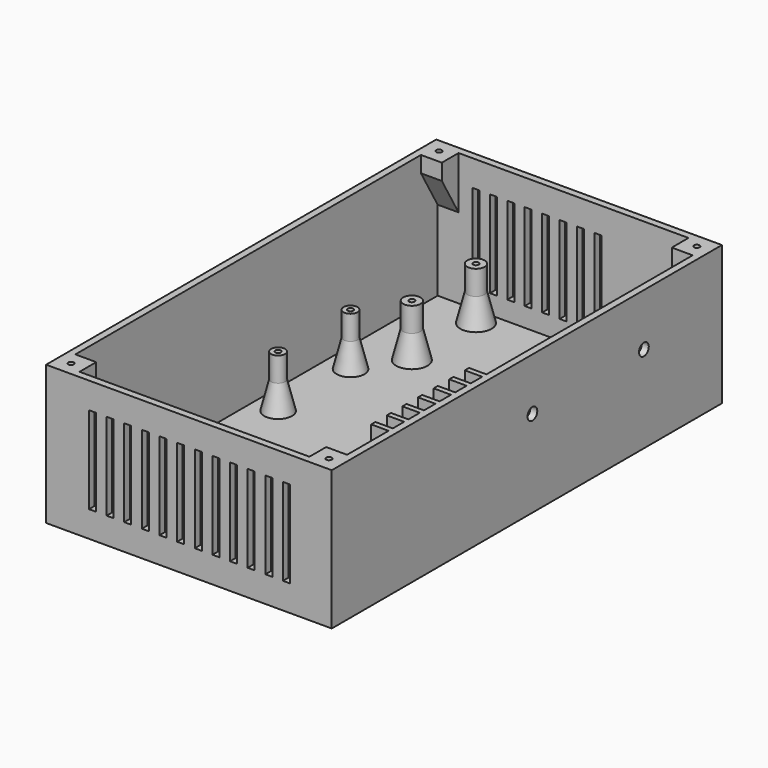
from build123d import *

# Parameters (mm, degrees)
SKETCH_W           = 140
SKETCH_H           = 40
PAD_DEPTH          = 2
SKETCH001_W        = 2
SKETCH001_H        = 40
PAD001_DEPTH       = 80
SKETCH002_W        = 138
SKETCH002_H        = 2
PAD002_DEPTH       = 80
SKETCH003_R        = 2.5
SKETCH003_R_2      = 0.8
SKETCH003_R_3      = 2
PAD003_DEPTH       = 15
SKETCH004_W        = 1.5
SKETCH004_H        = 23
PAD004_DEPTH       = 5
SKETCH005_R        = 4
POCKET_DEPTH       = 2
SKETCH006_W        = 2
SKETCH006_H        = 38
PAD005_DEPTH       = 80
SKETCH007_W        = 136
SKETCH007_H        = 2
PAD006_DEPTH       = 38
POCKET001_DEPTH    = 2
SKETCH011_W        = 8
SKETCH011_H        = 8
PAD007_DEPTH       = 15
SKETCH012_R        = 0.8
POCKET002_DEPTH    = 8
SKETCH013_R        = 1.75
POCKET003_DEPTH    = 2
SKETCH014_W        = 25
SKETCH014_H        = 2
POCKET004_DEPTH    = 2
SKETCH015_W        = 25
SKETCH015_H        = 2
POCKET005_DEPTH    = 2
CHAMFER_SIZE2      = 8
CHAMFER_SIZE       = 2
CHAMFER001_1_ANGLE = 60
CHAMFER001_1_SIZE  = 4.99
CHAMFER001_2_ANGLE = 60
CHAMFER001_2_SIZE  = 4.99
CHAMFER001_3_ANGLE = 60
CHAMFER001_3_SIZE  = 4.99
CHAMFER001_4_ANGLE = 60
CHAMFER001_4_SIZE  = 4.99
CHAMFER001_5_ANGLE = 60
CHAMFER001_5_SIZE  = 4.99
CHAMFER001_6_ANGLE = 60
CHAMFER001_6_SIZE  = 4.99
CHAMFER001_7_ANGLE = 60
CHAMFER001_7_SIZE  = 4.99
CHAMFER002_1_ANGLE = 60
CHAMFER002_1_SIZE  = 5.99
CHAMFER002_2_ANGLE = 60
CHAMFER002_2_SIZE  = 5.99
CHAMFER002_3_ANGLE = 60
CHAMFER002_3_SIZE  = 5.99
CHAMFER002_4_ANGLE = 60
CHAMFER002_4_SIZE  = 5.99


with BuildPart() as part:
    # Sketch → Pad (new body)
    with BuildSketch(Plane(origin=(0, 0, 0), x_dir=(0, -1, 0), z_dir=(-1, 0, 0))):
        with Locations((70, 20)):
            Rectangle(SKETCH_W, SKETCH_H)
    extrude(amount=PAD_DEPTH)

    # Sketch001 (on Face6 of Pad) → Pad001 (join)
    with BuildSketch(Plane(origin=(-2, 0, 0), x_dir=(0, -1, 0), z_dir=(-1, 0, 0))):
        with Locations((1, 20)):
            Rectangle(SKETCH001_W, SKETCH001_H)
    extrude(amount=PAD001_DEPTH)

    # Sketch002 (on Face6 of Pad001) → Pad002 (join)
    with BuildSketch(Plane(origin=(-2, 0, 0), x_dir=(0, -1, 0), z_dir=(-1, 0, 0))):
        with Locations((71, 1)):
            Rectangle(SKETCH002_W, SKETCH002_H)
    extrude(amount=PAD002_DEPTH)

    # Sketch003 (on Face14 of Pad002) → Pad003 (join)
    with BuildSketch(Plane(origin=(0, 0, 2), x_dir=(0, 1, 0), z_dir=(0, 0, 1))):
        with Locations((-7, 7)):
            Circle(SKETCH003_R)
        with Locations((-7, 7)):
            Circle(SKETCH003_R_2, mode=Mode.SUBTRACT)
        with Locations((-30, 7)):
            Circle(SKETCH003_R)
        with Locations((-30, 7)):
            Circle(SKETCH003_R_2, mode=Mode.SUBTRACT)
        with Locations((-7, 65)):
            Circle(SKETCH003_R)
        with Locations((-7, 65)):
            Circle(SKETCH003_R_2, mode=Mode.SUBTRACT)
        with Locations((-30, 65)):
            Circle(SKETCH003_R)
        with Locations((-30, 65)):
            Circle(SKETCH003_R_2, mode=Mode.SUBTRACT)
        with Locations((-42, 73)):
            Circle(SKETCH003_R_3)
        with Locations((-42, 73)):
            Circle(SKETCH003_R_2, mode=Mode.SUBTRACT)
        with Locations((-68, 73)):
            Circle(SKETCH003_R_3)
        with Locations((-68, 73)):
            Circle(SKETCH003_R_2, mode=Mode.SUBTRACT)
        with Locations((-42, 7)):
            Circle(SKETCH003_R_3)
        with Locations((-42, 7)):
            Circle(SKETCH003_R_2, mode=Mode.SUBTRACT)
        with Locations((-68, 7)):
            Circle(SKETCH003_R_3)
        with Locations((-68, 7)):
            Circle(SKETCH003_R_2, mode=Mode.SUBTRACT)
    extrude(amount=PAD003_DEPTH)

    # Sketch004 (on Face10 of Pad003) → Pad004 (join)
    with BuildSketch(Plane(origin=(-2, 0, 0), x_dir=(0, -1, 0), z_dir=(-1, 0, 0))):
        with Locations((82.75, 28.5)):
            Rectangle(SKETCH004_W, SKETCH004_H)
        with Locations((88.35, 28.5)):
            Rectangle(SKETCH004_W, SKETCH004_H)
        with Locations((93.95, 28.5)):
            Rectangle(SKETCH004_W, SKETCH004_H)
        with Locations((99.55, 28.5)):
            Rectangle(SKETCH004_W, SKETCH004_H)
        with Locations((105.15, 28.5)):
            Rectangle(SKETCH004_W, SKETCH004_H)
        with Locations((110.75, 28.5)):
            Rectangle(SKETCH004_W, SKETCH004_H)
        with Locations((116.35, 28.5)):
            Rectangle(SKETCH004_W, SKETCH004_H)
    extrude(amount=PAD004_DEPTH)

    # Sketch005 (on Face21 of Pad004) → Pocket (cut)
    with BuildSketch(Plane(origin=(0, 0, 2), x_dir=(0, 1, 0), z_dir=(0, 0, 1))):
        with Locations((-89.5, 13)):
            Circle(SKETCH005_R)
    extrude(amount=-POCKET_DEPTH, mode=Mode.SUBTRACT)

    # Sketch006 (on Face10 of Pocket) → Pad005 (join)
    with BuildSketch(Plane(origin=(-2, 0, 0), x_dir=(0, -1, 0), z_dir=(-1, 0, 0))):
        with Locations((139, 21)):
            Rectangle(SKETCH006_W, SKETCH006_H)
    extrude(amount=PAD005_DEPTH)

    # Sketch007 (on Face26 of Pad005) → Pad006 (join)
    with BuildSketch(Plane(origin=(0, 0, 2), x_dir=(0, 1, 0), z_dir=(0, 0, 1))):
        with Locations((-70, 81)):
            Rectangle(SKETCH007_W, SKETCH007_H)
    extrude(amount=PAD006_DEPTH)

    # Sketch010 (on Face29 of Pad006) → Pocket001 (cut)
    with BuildSketch(Plane(origin=(0, -2, 0), x_dir=(0, 0, 1), z_dir=(0, -1, 0))):
        with BuildLine():
            ThreePointArc((20.75, 18.25), (17, 22), (13.25, 18.25))
            Line((13.25, 18.25), (13.25, 10.75))
            ThreePointArc((13.25, 10.75), (17, 7), (20.75, 10.75))
            Line((20.75, 18.25), (20.75, 10.75))
        make_face()
    extrude(amount=-POCKET001_DEPTH, mode=Mode.SUBTRACT)

    # Sketch011 (on Face14 of Pocket001) → Pad007 (join)
    with BuildSketch(Plane(origin=(0, 0, 40), x_dir=(0, 1, 0), z_dir=(0, 0, 1))):
        with Locations((-136, 4)):
            Rectangle(SKETCH011_W, SKETCH011_H)
        with Locations((-136, 78)):
            Rectangle(SKETCH011_W, SKETCH011_H)
        with Locations((-4, 78)):
            Rectangle(SKETCH011_W, SKETCH011_H)
        with Locations((-4, 4)):
            Rectangle(SKETCH011_W, SKETCH011_H)
    extrude(amount=-PAD007_DEPTH)

    # Sketch012 (on Face28 of Pad007) → Pocket002 (cut)
    with BuildSketch(Plane(origin=(0, 0, 40), x_dir=(0, 1, 0), z_dir=(0, 0, 1))):
        with Locations((-136, 78)):
            Circle(SKETCH012_R)
        with Locations((-4, 78)):
            Circle(SKETCH012_R)
        with Locations((-4, 4)):
            Circle(SKETCH012_R)
        with Locations((-136, 4)):
            Circle(SKETCH012_R)
    extrude(amount=-POCKET002_DEPTH, mode=Mode.SUBTRACT)

    # Sketch013 (on Face31 of Pocket002) → Pocket003 (cut)
    with BuildSketch(Plane(origin=(-2, 0, 0), x_dir=(0, -1, 0), z_dir=(-1, 0, 0))):
        with Locations((68, 25)):
            Circle(SKETCH013_R)
        with Locations((28, 25)):
            Circle(SKETCH013_R)
    extrude(amount=-POCKET003_DEPTH, mode=Mode.SUBTRACT)

    # Sketch014 (on Face10 of Pocket003) → Pocket004 (cut)
    with BuildSketch(Plane(origin=(0, -140, 0), x_dir=(0, 0, 1), z_dir=(0, -1, 0))):
        with Locations((20, 13)):
            Rectangle(SKETCH014_W, SKETCH014_H)
        with Locations((20, 18.062669)):
            Rectangle(SKETCH014_W, SKETCH014_H)
        with Locations((20, 23.125339)):
            Rectangle(SKETCH014_W, SKETCH014_H)
        with Locations((20, 28.188008)):
            Rectangle(SKETCH014_W, SKETCH014_H)
        with Locations((20, 33.250677)):
            Rectangle(SKETCH014_W, SKETCH014_H)
        with Locations((20, 38.313346)):
            Rectangle(SKETCH014_W, SKETCH014_H)
        with Locations((20, 43.376016)):
            Rectangle(SKETCH014_W, SKETCH014_H)
        with Locations((20, 48.438685)):
            Rectangle(SKETCH014_W, SKETCH014_H)
        with Locations((20, 53.501354)):
            Rectangle(SKETCH014_W, SKETCH014_H)
        with Locations((20, 58.564024)):
            Rectangle(SKETCH014_W, SKETCH014_H)
        with Locations((20, 63.626693)):
            Rectangle(SKETCH014_W, SKETCH014_H)
        with Locations((20, 68.689362)):
            Rectangle(SKETCH014_W, SKETCH014_H)
    extrude(amount=-POCKET004_DEPTH, mode=Mode.SUBTRACT)

    # Sketch015 (on Face7 of Pocket004) → Pocket005 (cut)
    with BuildSketch(Plane(origin=(0, 0, 0), x_dir=(0, 0, -1), z_dir=(0, 1, 0))):
        with Locations((-20, 69)):
            Rectangle(SKETCH015_W, SKETCH015_H)
        with Locations((-20, 64)):
            Rectangle(SKETCH015_W, SKETCH015_H)
        with Locations((-20, 59)):
            Rectangle(SKETCH015_W, SKETCH015_H)
        with Locations((-20, 54)):
            Rectangle(SKETCH015_W, SKETCH015_H)
        with Locations((-20, 49)):
            Rectangle(SKETCH015_W, SKETCH015_H)
        with Locations((-20, 44)):
            Rectangle(SKETCH015_W, SKETCH015_H)
        with Locations((-20, 39)):
            Rectangle(SKETCH015_W, SKETCH015_H)
        with Locations((-20, 34)):
            Rectangle(SKETCH015_W, SKETCH015_H)
    extrude(amount=-POCKET005_DEPTH, mode=Mode.SUBTRACT)

    # Chamfer
    chamfer_edges = [part.edges().sort_by_distance(p)[0] for p in [
        (-7, -44, 2),
        (-7, -70, 2),
        (-7, -32.5, 2),
        (-7, -9.5, 2),
        (-73, -70, 2),
        (-73, -44, 2),
        (-65, -32.5, 2),
        (-65, -9.5, 2),
    ]]
    chamfer_side = part.faces().sort_by_distance((-41.177429, -70.366155, 2))[0]
    chamfer(chamfer_edges, length=CHAMFER_SIZE, length2=CHAMFER_SIZE2, reference=chamfer_side)

    # Chamfer001 1
    chamfer001_1_edges = [part.edges().sort_by_distance(p)[0] for p in [
        (-7, -116.35, 17),
    ]]
    chamfer001_1_side = part.faces().sort_by_distance((-4.5, -116.35, 17))[0]
    chamfer(chamfer001_1_edges, length=CHAMFER001_1_SIZE, angle=CHAMFER001_1_ANGLE, reference=chamfer001_1_side)

    # Chamfer001 2
    chamfer001_2_edges = [part.edges().sort_by_distance(p)[0] for p in [
        (-7, -110.75, 17),
    ]]
    chamfer001_2_side = part.faces().sort_by_distance((-4.5, -110.75, 17))[0]
    chamfer(chamfer001_2_edges, length=CHAMFER001_2_SIZE, angle=CHAMFER001_2_ANGLE, reference=chamfer001_2_side)

    # Chamfer001 3
    chamfer001_3_edges = [part.edges().sort_by_distance(p)[0] for p in [
        (-7, -105.15, 17),
    ]]
    chamfer001_3_side = part.faces().sort_by_distance((-4.5, -105.15, 17))[0]
    chamfer(chamfer001_3_edges, length=CHAMFER001_3_SIZE, angle=CHAMFER001_3_ANGLE, reference=chamfer001_3_side)

    # Chamfer001 4
    chamfer001_4_edges = [part.edges().sort_by_distance(p)[0] for p in [
        (-7, -99.55, 17),
    ]]
    chamfer001_4_side = part.faces().sort_by_distance((-4.5, -99.55, 17))[0]
    chamfer(chamfer001_4_edges, length=CHAMFER001_4_SIZE, angle=CHAMFER001_4_ANGLE, reference=chamfer001_4_side)

    # Chamfer001 5
    chamfer001_5_edges = [part.edges().sort_by_distance(p)[0] for p in [
        (-7, -93.95, 17),
    ]]
    chamfer001_5_side = part.faces().sort_by_distance((-4.5, -93.95, 17))[0]
    chamfer(chamfer001_5_edges, length=CHAMFER001_5_SIZE, angle=CHAMFER001_5_ANGLE, reference=chamfer001_5_side)

    # Chamfer001 6
    chamfer001_6_edges = [part.edges().sort_by_distance(p)[0] for p in [
        (-7, -88.35, 17),
    ]]
    chamfer001_6_side = part.faces().sort_by_distance((-4.5, -88.35, 17))[0]
    chamfer(chamfer001_6_edges, length=CHAMFER001_6_SIZE, angle=CHAMFER001_6_ANGLE, reference=chamfer001_6_side)

    # Chamfer001 7
    chamfer001_7_edges = [part.edges().sort_by_distance(p)[0] for p in [
        (-7, -82.75, 17),
    ]]
    chamfer001_7_side = part.faces().sort_by_distance((-4.5, -82.75, 17))[0]
    chamfer(chamfer001_7_edges, length=CHAMFER001_7_SIZE, angle=CHAMFER001_7_ANGLE, reference=chamfer001_7_side)

    # Chamfer002 1
    chamfer002_1_edges = [part.edges().sort_by_distance(p)[0] for p in [
        (-5, -132, 25),
    ]]
    chamfer002_1_side = part.faces().sort_by_distance((-5, -135, 25))[0]
    chamfer(chamfer002_1_edges, length=CHAMFER002_1_SIZE, angle=CHAMFER002_1_ANGLE, reference=chamfer002_1_side)

    # Chamfer002 2
    chamfer002_2_edges = [part.edges().sort_by_distance(p)[0] for p in [
        (-5, -8, 25),
    ]]
    chamfer002_2_side = part.faces().sort_by_distance((-5, -5, 25))[0]
    chamfer(chamfer002_2_edges, length=CHAMFER002_2_SIZE, angle=CHAMFER002_2_ANGLE, reference=chamfer002_2_side)

    # Chamfer002 3
    chamfer002_3_edges = [part.edges().sort_by_distance(p)[0] for p in [
        (-77, -8, 25),
    ]]
    chamfer002_3_side = part.faces().sort_by_distance((-77, -5, 25))[0]
    chamfer(chamfer002_3_edges, length=CHAMFER002_3_SIZE, angle=CHAMFER002_3_ANGLE, reference=chamfer002_3_side)

    # Chamfer002 4
    chamfer002_4_edges = [part.edges().sort_by_distance(p)[0] for p in [
        (-77, -132, 25),
    ]]
    chamfer002_4_side = part.faces().sort_by_distance((-77, -135, 25))[0]
    chamfer(chamfer002_4_edges, length=CHAMFER002_4_SIZE, angle=CHAMFER002_4_ANGLE, reference=chamfer002_4_side)


solid = part.part
